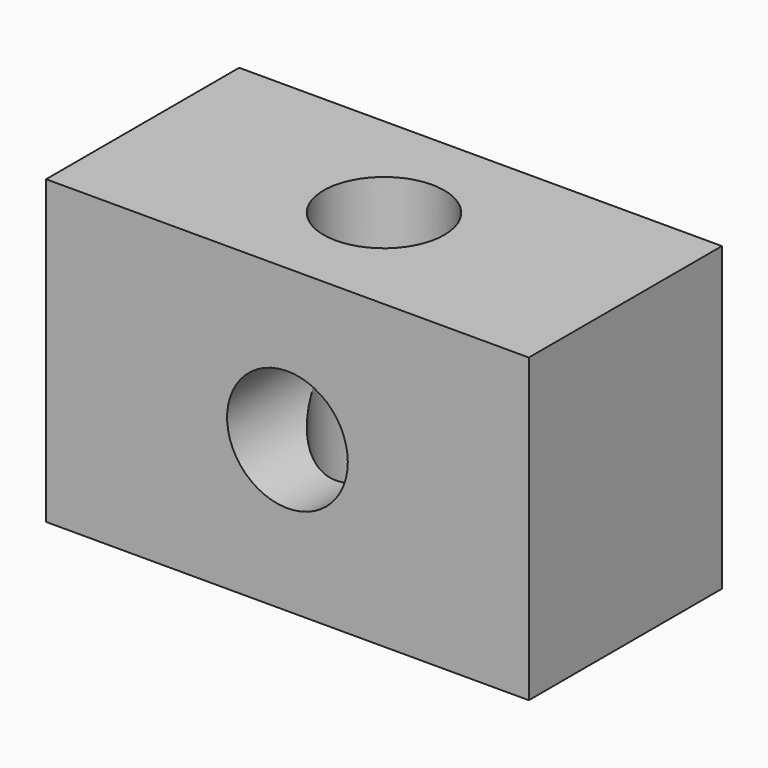
from build123d import *

# Parameters (mm, degrees)
F0_W     = 40
F0_H     = 20
F1_DEPTH = 25
F2_R     = 5
F3_DEPTH = 25
F4_R     = 5
F5_DEPTH = 25


with BuildPart() as f1:
    # F0 (on Top) → F1 (new body)
    with BuildSketch(Plane.XY):
        with Locations((20, 10)):
            Rectangle(F0_W, F0_H)
    extrude(amount=F1_DEPTH)

    # F2 (on face) → F3 (cut)
    with BuildSketch(Plane.XY.offset(25)):
        with Locations((20, 10)):
            Circle(F2_R)
    extrude(amount=-F3_DEPTH, mode=Mode.SUBTRACT)

    # F4 (on face) → F5 (cut)
    with BuildSketch(Plane.XZ):
        with Locations((20, 12.5)):
            Circle(F4_R)
    extrude(amount=-F5_DEPTH, mode=Mode.SUBTRACT)


solid = f1.part
